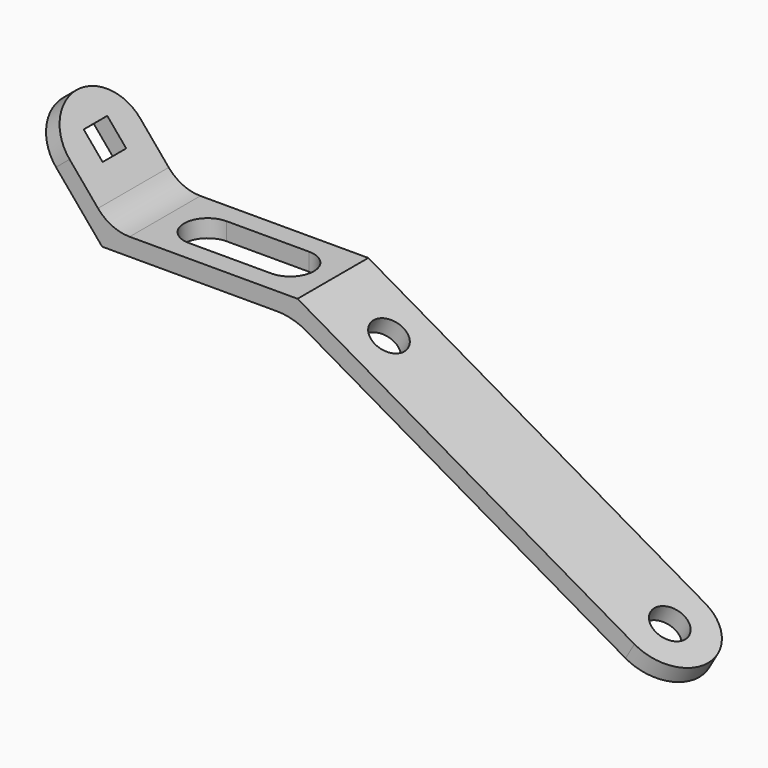
from build123d import *

# Parameters (mm, degrees)
F1_DEPTH = 7.5
F2_W     = 5
F2_H     = 5
F3_DEPTH = 36.0419135764
F5_DEPTH = 39.3407459622
F6_R     = 3
F7_DEPTH = 56.9630184207


with BuildPart() as f1:
    # F0 (on Front) → F1 (new body, symmetric)
    with BuildSketch(Plane.XZ):
        with BuildLine():
            Line((-5.3623111018, -4.4995132678), (-15.0041252471, 6.991153379))
            Line((-15.0041252471, 6.991153379), (-17.3022585765, 5.0627905499))
            Line((-17.3022585765, 5.0627905499), (-4.6630765815, -10))
            Line((-4.6630765815, -10), (25, -10))
            ThreePointArc((25, -10), (27.588190451, -10.3407417371), (30, -11.3397459622))
            Line((30, -11.3397459622), (90.6217782649, -46.3397459622))
            Line((90.6217782649, -46.3397459622), (92.1217782649, -43.7416697508))
            Line((92.1217782649, -43.7416697508), (28.4833395016, -7))
            Line((28.4833395016, -7), (0, -7))
            ThreePointArc((0, -7), (-2.9583278322, -6.3441545093), (-5.3623111018, -4.4995132678))
        make_face()
    extrude(amount=F1_DEPTH, both=True)

    # F2 (on face) → F3 (cut, through all)
    with BuildSketch(Plane(origin=(-5.3623111018, 0, -4.4995132678), x_dir=(0, 1, 0), z_dir=(0.7660444431, 0, 0.6427876097))):
        with BuildLine():
            ThreePointArc((-7.5, 7.5), (-5.3033008589, 12.8033008589), (0, 15))
            Line((0, 15), (-7.5, 15))
            Line((-7.5, 15), (-7.5, 7.5))
        make_face()
        with Locations((0, 7.5)):
            Rectangle(F2_W, F2_H)
        with BuildLine():
            ThreePointArc((0, 15), (5.3033008589, 12.8033008589), (7.5, 7.5))
            Line((7.5, 7.5), (7.5, 15))
            Line((7.5, 15), (0, 15))
        make_face()
    extrude(amount=-F3_DEPTH, mode=Mode.SUBTRACT)

    # F4 (on face) → F5 (cut, through all)
    with BuildSketch(Plane.XY.offset(-7)):
        with BuildLine():
            ThreePointArc((7.2416697508, 4), (3.2416697508, 0), (7.2416697508, -4))
            Line((7.2416697508, -4), (21.2416697508, -4))
            ThreePointArc((21.2416697508, -4), (25.2416697508, 0), (21.2416697508, 4))
            Line((21.2416697508, 4), (7.2416697508, 4))
        make_face()
    extrude(amount=-F5_DEPTH, mode=Mode.SUBTRACT)

    # F6 (on face) → F7 (cut, through all)
    with BuildSketch(Plane(origin=(4.0897459622, 0, 7.0836477965), x_dir=(0.8660254038, 0, -0.5), z_dir=(0.5, 0, 0.8660254038))):
        with Locations((39.1506350946, 0)):
            Circle(F6_R)
        with Locations((94.1506350946, 0)):
            Circle(F6_R)
        with BuildLine():
            ThreePointArc((94.1506350946, 7.5), (99.4539359535, 5.3033008589), (101.6506350946, 0))
            Line((101.6506350946, 0), (101.6506350946, 7.5))
            Line((101.6506350946, 7.5), (94.1506350946, 7.5))
        make_face()
        with BuildLine():
            ThreePointArc((101.6506350946, 0), (99.4539359535, -5.3033008589), (94.1506350946, -7.5))
            Line((94.1506350946, -7.5), (101.6506350946, -7.5))
            Line((101.6506350946, -7.5), (101.6506350946, 0))
        make_face()
    extrude(amount=-F7_DEPTH, mode=Mode.SUBTRACT)


solid = f1.part
